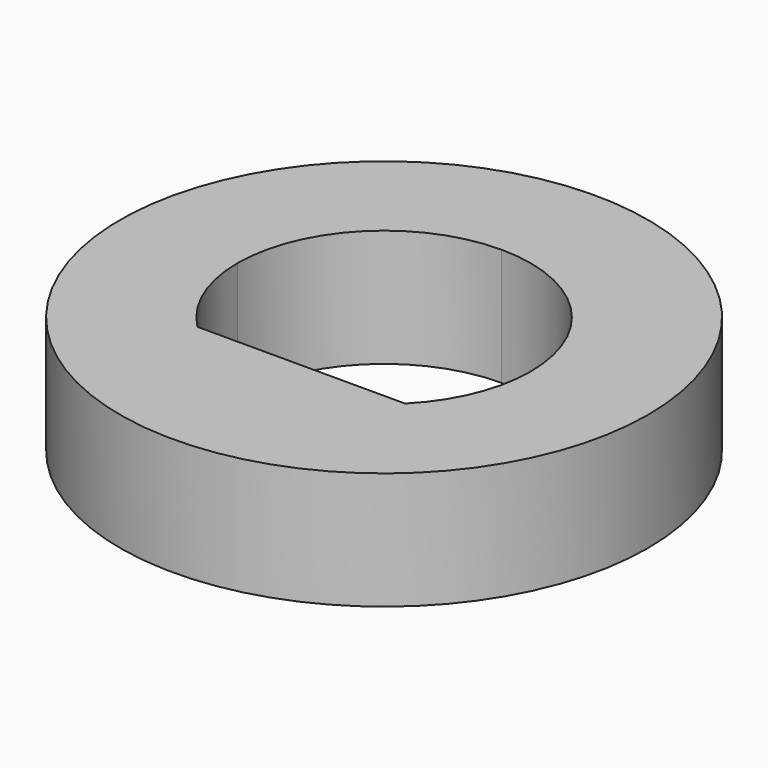
from build123d import *

# Parameters (mm, degrees)
F0_R     = 6.75
F1_DEPTH = 3
F3_DEPTH = 25


with BuildPart() as f1:
    # F0 (on Top) → F1 (new body)
    with BuildSketch(Plane.XY):
        Circle(F0_R)
    extrude(amount=F1_DEPTH)

    # F2 (on face) → F3 (cut)
    with BuildSketch(Plane.XY.offset(3)):
        with BuildLine():
            ThreePointArc((3.75, 0), (2.6516504294, 2.6516504294), (0, 3.75))
            ThreePointArc((0, 3.75), (-2.6516504294, 2.6516504294), (-3.75, 0))
            ThreePointArc((-3.75, 0), (-3.4649945434, -1.4339849422), (-2.6532998323, -2.65))
            Line((-2.6532998323, -2.65), (2.6532998323, -2.65))
            ThreePointArc((2.6532998323, -2.65), (3.4649945434, -1.4339849422), (3.75, 0))
        make_face()
    extrude(amount=-F3_DEPTH, mode=Mode.SUBTRACT)


solid = f1.part
